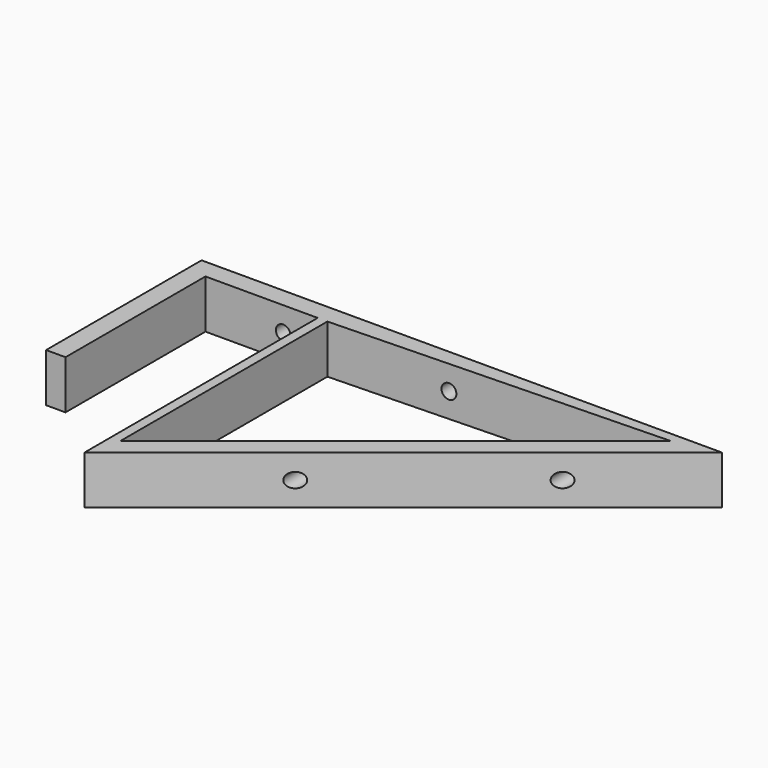
from build123d import *

# Parameters (mm, degrees)
PAD_DEPTH    = 10
SKETCH001_R  = 1.5
POCKET_DEPTH = 64.001


with BuildPart() as part:
    # Sketch → Pad (new body)
    with BuildSketch(Plane.XY):
        Polygon((80, 4), (-27.1, 4), (-27.1, -36), (-23.1, -36), (-23.1, 0), (0, 0), (0, -60), align=None)
        Polygon((2, 0), (2, -53.277501), (71.096876, 2), align=None, mode=Mode.SUBTRACT)
    extrude(amount=PAD_DEPTH)

    # Sketch001 (on Face5 of Pad) → Pocket (cut, through all)
    with BuildSketch(Plane(origin=(0, 4, 0), x_dir=(-1, 0, 0), z_dir=(0, 1, 0))):
        with Locations((-60, 5)):
            Circle(SKETCH001_R)
        with Locations((7.1, 5)):
            Circle(SKETCH001_R)
        with Locations((-26.45, 5)):
            Circle(SKETCH001_R)
    extrude(amount=-POCKET_DEPTH, mode=Mode.SUBTRACT)


solid = part.part
